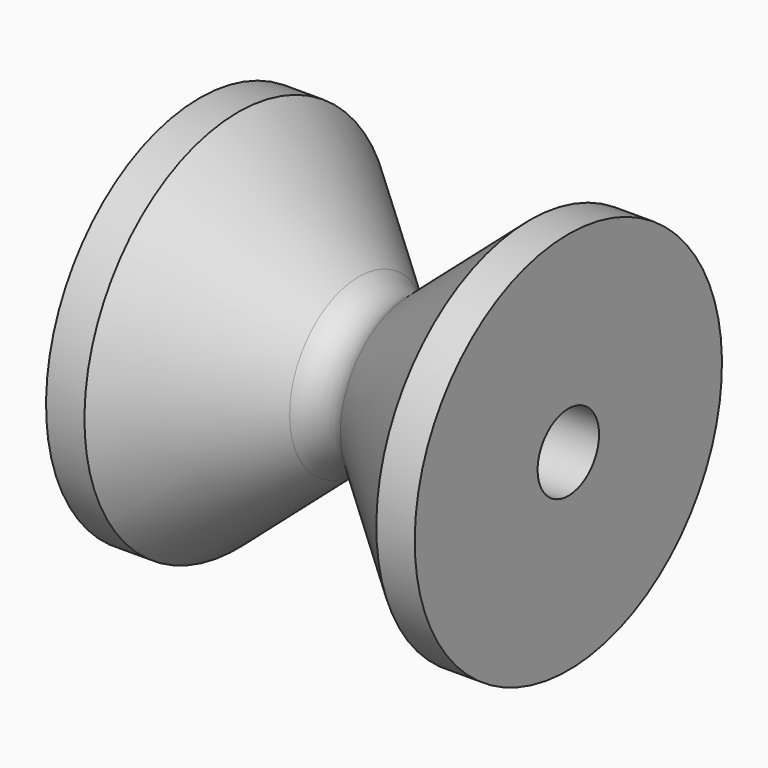
from build123d import *


with BuildPart() as f1:
    # F0 (on Front) → F1 (revolve)
    with BuildSketch(Plane.XZ):
        with BuildLine():
            Line((-24, 25.156397), (-24, 5.156397))
            Line((-24, 5.156397), (0, 5.156397))
            Line((0, 5.156397), (24, 5.156397))
            Line((24, 5.156397), (24, 25.156397))
            Line((24, 25.156397), (19, 25.156397))
            Line((19, 25.156397), (3.295077, 11.39575))
            ThreePointArc((3.295077, 11.39575), (0, 10.156397), (-3.295077, 11.39575))
            Line((-3.295077, 11.39575), (-19, 25.156397))
            Line((-19, 25.156397), (-24, 25.156397))
        make_face()
    revolve(axis=Axis((-15.156, 0, 0.156397), (-1, 0, 0)))


solid = f1.part
